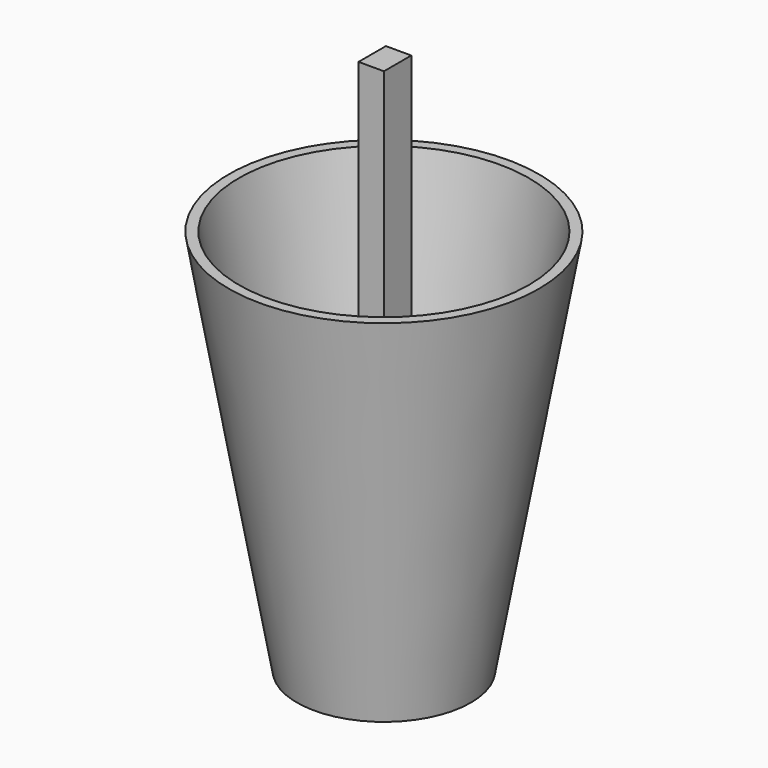
from build123d import *

# Parameters (mm, degrees)
F0_R     = 45
F1_DEPTH = 200
F1_TAPER = -10
F2_R     = 75
F3_DEPTH = 195
F3_TAPER = 10
F5_W     = 13.1450463086
F5_H     = 17.6969505847
F6_DEPTH = 268


with BuildPart() as f1:
    # F0 (on Top) → F1 (new body)
    with BuildSketch(Plane.XY):
        Circle(F0_R)
    extrude(amount=F1_DEPTH, taper=F1_TAPER)

    # F2 (on face) → F3 (cut)
    with BuildSketch(Plane.XY.offset(200)):
        Circle(F2_R)
    extrude(amount=-F3_DEPTH, taper=F3_TAPER, mode=Mode.SUBTRACT)

    # F5 (on offset) → F6 (join)
    with BuildSketch(Plane.XY.offset(5)):
        with Locations((-6.5725231543, 8.8484752923)):
            Rectangle(F5_W, F5_H)
    extrude(amount=F6_DEPTH)


solid = f1.part
